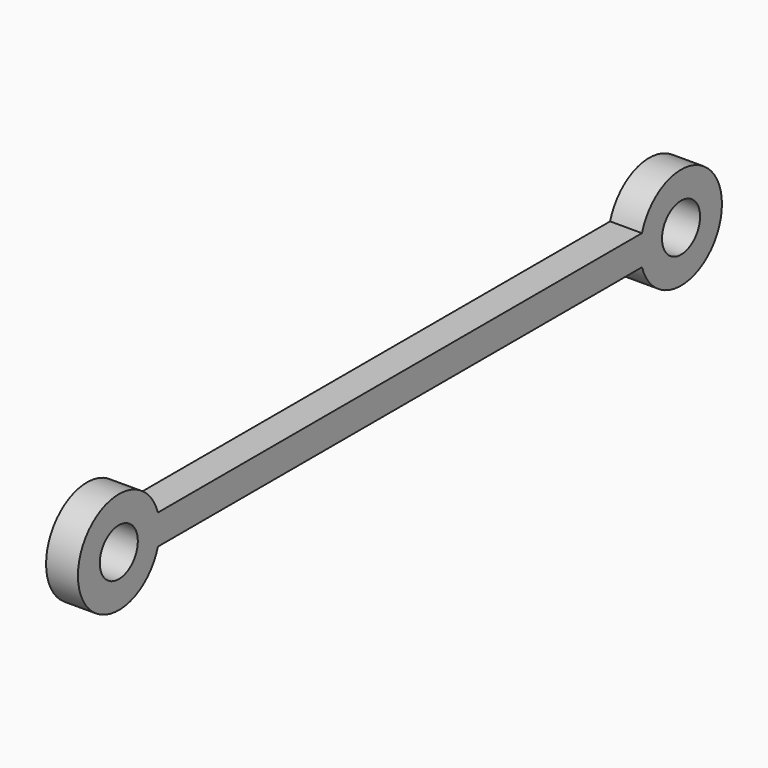
from build123d import *

# Parameters (mm, degrees)
F0_R     = 7.201014
F1_DEPTH = 4.826


with BuildPart() as f1:
    # F0 (on Right) → F1 (new body)
    with BuildSketch(Plane.YZ):
        with BuildLine():
            Line((0, -4.541845), (0, 4.541845))
            Line((0, 4.541845), (-91.654071, 4.541845))
            ThreePointArc((-91.654071, 4.541845), (-121.932156, 0), (-91.654071, -4.541845))
            Line((-91.654071, -4.541845), (0, -4.541845))
        make_face()
        with Locations((-106.452465, 0)):
            Circle(F0_R, mode=Mode.SUBTRACT)
    extrude(amount=F1_DEPTH)

    # F2: F1 across plane


with BuildPart() as f1_1:
    add(f1.part)
    add(f1.part.mirror(Plane.YZ))

    # F3: F1 across plane


with BuildPart() as f1_2:
    add(f1_1.part)
    add(f1_1.part.mirror(Plane.XZ))


solid = f1_2.part
